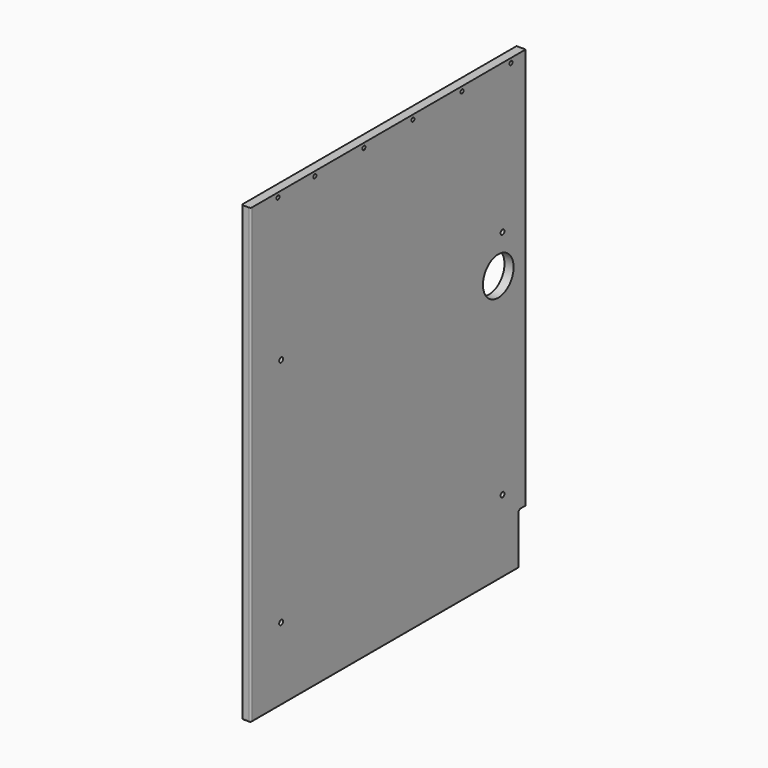
from build123d import *

# Parameters (mm, degrees)
F0_W      = 717.55
F0_H      = 946.15
F1_DEPTH  = 19.05
F3_D      = 8.001
F3_DEPTH  = 12.7
F3_TIP    = 2.4037429064
F5_DEPTH  = 19.051
F7_D      = 9.99998
F9_D      = 79.99984
F11_D     = 8.001
F11_DEPTH = 25.4
F11_TIP   = 2.4037429064
F12_R     = 3.175


with BuildPart() as f1:
    # F0 (on Right) → F1 (new body)
    with BuildSketch(Plane.YZ):
        Rectangle(F0_W, F0_H)
    extrude(amount=-F1_DEPTH)

    # F3
    with Locations(Plane.YZ):
        with Locations((-287.32734, 463.55), (-191.32804, 463.55), (-63.32728, 463.55), (64.67348, 463.55), (192.67424, 463.55), (320.675, 463.55)):
            Hole(F3_D / 2, depth=F3_DEPTH)
            with Locations((0, 0, -(F3_DEPTH + F3_TIP / 2))):  # 118° drill point
                Cone(0, F3_D / 2, F3_TIP, mode=Mode.SUBTRACT)

    # F4 (on face) → F5 (cut, through all)
    with BuildSketch(Plane.YZ):
        with BuildLine():
            Line((339.725, -473.075), (358.775, -473.075))
            Line((358.775, -473.075), (358.775, -365.125))
            Line((358.775, -365.125), (346.075, -365.125))
            ThreePointArc((346.075, -365.125), (341.5848719395, -366.9848719395), (339.725, -371.475))
            Line((339.725, -371.475), (339.725, -473.075))
        make_face()
    extrude(amount=-F5_DEPTH, mode=Mode.SUBTRACT)

    # F7 (through all)
    with Locations(Plane.YZ):
        with Locations((-279.4, 161.925), (-279.4, -320.675), (298.45, -320.675), (298.45, 161.925)):
            Hole(F7_D / 2)

    # F9 (through all)
    with Locations(Plane.YZ):
        with Locations((287.3375, 85.725)):
            Hole(F9_D / 2)

    # F11
    with Locations(Plane(origin=(0, 358.775, 0), x_dir=(-1, 0, 0), z_dir=(0, 1, 0))):
        with Locations((9.525, 434.975), (9.525, 306.97424), (9.525, 178.97348), (9.525, 50.97272), (9.525, -77.02804), (9.525, -205.0288), (9.525, -333.02956)):
            Hole(F11_D / 2, depth=F11_DEPTH)
            with Locations((0, 0, -(F11_DEPTH + F11_TIP / 2))):  # 118° drill point
                Cone(0, F11_D / 2, F11_TIP, mode=Mode.SUBTRACT)

    # F12
    f12_edges = [f1.edges().sort_by_distance(p)[0] for p in [
        (-19.05, -358.775, 0),
        (0, -358.775, 0),
        (0, -9.525, -473.075),
        (-19.05, -9.525, -473.075),
        (-9.525, -358.775, -473.075),
    ]]
    fillet(f12_edges, radius=F12_R)


solid = f1.part
